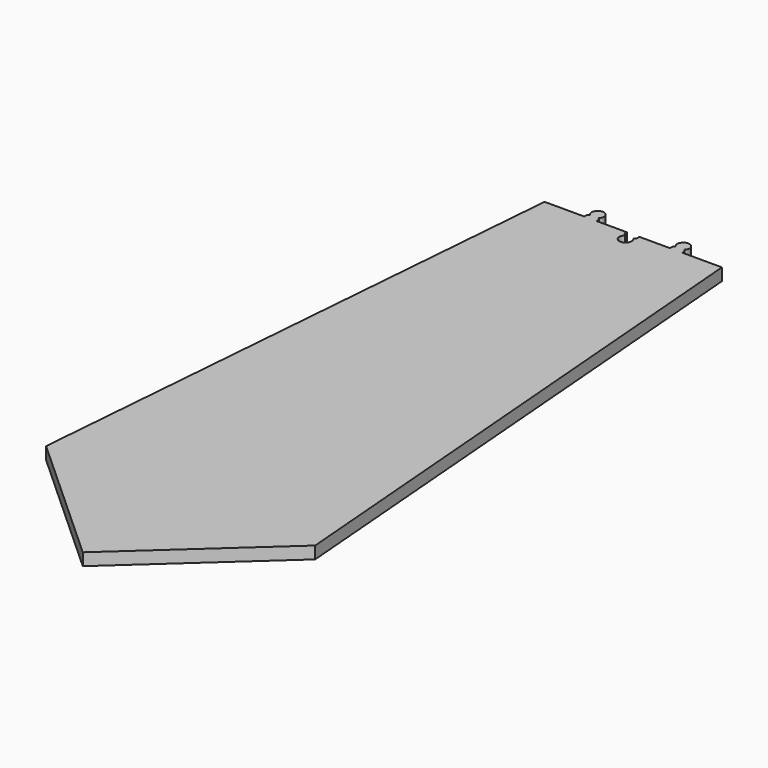
from build123d import *

# Parameters (mm, degrees)
F1_DEPTH = 4


with BuildPart() as f1:
    # F0 (on Top) → F1 (new body)
    with BuildSketch(Plane.XY):
        with BuildLine():
            Line((10.913862, 100.04352), (0.913862, 100.04352))
            Line((0.913862, 100.04352), (0.913862, 98.879407))
            Line((0.913862, 98.879407), (0.328076, 98.293621))
            ThreePointArc((0.328076, 98.293621), (0.761621, 96.11404), (-1.086138, 94.879407))
            ThreePointArc((-1.086138, 94.879407), (-2.955332, 96.167991), (-2.415912, 98.373295))
            Line((-2.415912, 98.373295), (-3.086138, 99.04352))
            Line((-3.086138, 99.04352), (-3.086138, 100.04352))
            Line((-3.086138, 100.04352), (-13.086138, 100.04352))
            Line((-13.086138, 100.04352), (-13.086138, 101.04352))
            Line((-13.086138, 101.04352), (-13.671924, 101.629306))
            ThreePointArc((-13.671924, 101.629306), (-15.086138, 105.04352), (-16.500351, 101.629306))
            Line((-16.500351, 101.629306), (-17.086138, 101.04352))
            Line((-17.086138, 101.04352), (-17.086138, 100.04352))
            Line((-17.086138, 100.04352), (-30.086138, 100.04352))
            Line((-30.086138, 100.04352), (-45.086138, -84.95648))
            Line((-45.086138, -84.95648), (-1.086138, -124.95648))
            Line((-1.086138, -124.95648), (42.913862, -84.95648))
            Line((42.913862, -84.95648), (27.913862, 100.04352))
            Line((27.913862, 100.04352), (14.913862, 100.04352))
            Line((14.913862, 100.04352), (10.913862, 100.04352))
        make_face()
        with BuildLine():
            Line((10.913862, 101.04352), (10.913862, 100.04352))
            Line((10.913862, 100.04352), (14.913862, 100.04352))
            Line((14.913862, 100.04352), (14.913862, 101.04352))
            Line((14.913862, 101.04352), (14.328076, 101.629306))
            ThreePointArc((14.328076, 101.629306), (12.913862, 105.04352), (11.499649, 101.629306))
            Line((11.499649, 101.629306), (10.913862, 101.04352))
        make_face()
    extrude(amount=F1_DEPTH)


solid = f1.part
